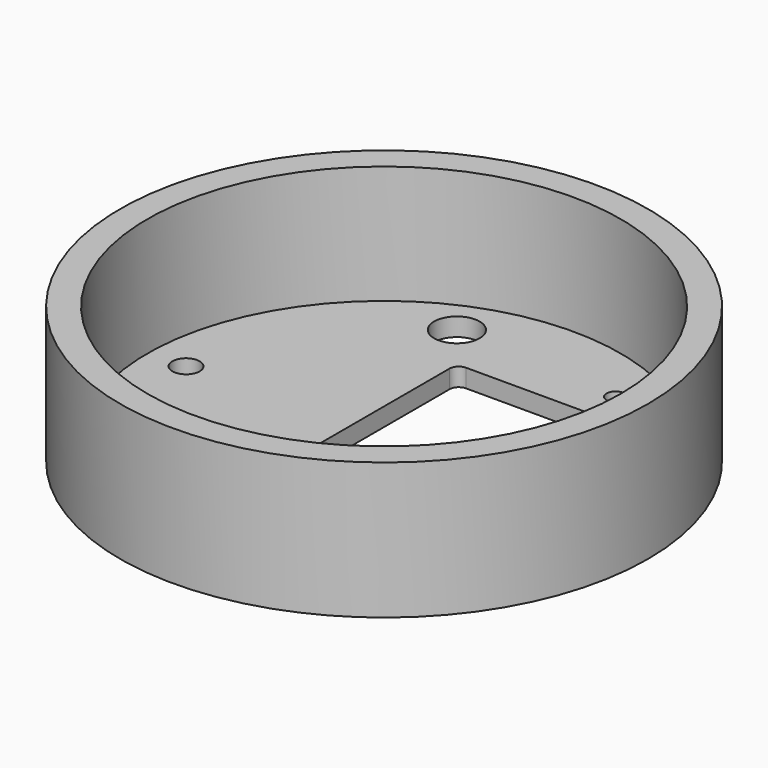
from build123d import *

# Parameters (mm, degrees)
PAD_DEPTH         = 10
CYLINDER002_R     = 2.5
CYLINDER002_DEPTH = 10
CYLINDER004_R     = 1.5
CYLINDER004_DEPTH = 10
CYLINDER003_R     = 1
CYLINDER003_DEPTH = 10
CYLINDER001_R     = 2.5
CYLINDER001_DEPTH = 10
CYLINDER005_R     = 26
CYLINDER005_DEPTH = 32
CYLINDER_R        = 29
CYLINDER_DEPTH    = 15


with BuildPart() as pad:
    # Sketch → Pad (new body)
    with BuildSketch(Plane.XY):
        with BuildLine():
            Line((27, 45), (45.5, 45))
            ThreePointArc((46.5, 44), (46.207107, 44.707107), (45.5, 45))
            Line((46.5, 44), (46.5, 16))
            ThreePointArc((45.5, 15), (46.207107, 15.292893), (46.5, 16))
            Line((45.5, 15), (27, 15))
            ThreePointArc((26, 16), (26.292893, 15.292893), (27, 15))
            Line((26, 16), (26, 44))
            ThreePointArc((27, 45), (26.292893, 44.707107), (26, 44))
        make_face()
    extrude(amount=PAD_DEPTH)


with BuildPart() as zylinder002:
    # Cylinder002 → Cylinder002 (new body)
    with BuildSketch(Plane(origin=(22, 50, -1), x_dir=(1, 0, 0), z_dir=(0, 0, 1))):
        Circle(CYLINDER002_R)
    extrude(amount=CYLINDER002_DEPTH)


with BuildPart() as zylinder004:
    # Cylinder004 → Cylinder004 (new body)
    with BuildSketch(Plane(origin=(8.08, 30.2, -1), x_dir=(1, 0, 0), z_dir=(0, 0, 1))):
        Circle(CYLINDER004_R)
    extrude(amount=CYLINDER004_DEPTH)


with BuildPart() as zylinder003:
    # Cylinder003 → Cylinder003 (new body)
    with BuildSketch(Plane(origin=(40.4, 48.8, -1), x_dir=(1, 0, 0), z_dir=(0, 0, 1))):
        Circle(CYLINDER003_R)
    extrude(amount=CYLINDER003_DEPTH)


with BuildPart() as fusion:
    # Cylinder001 → Cylinder001 (new body)
    with BuildSketch(Plane(origin=(22, 10, -1), x_dir=(1, 0, 0), z_dir=(0, 0, 1))):
        Circle(CYLINDER001_R)
    extrude(amount=CYLINDER001_DEPTH)

    # Fusion: union Pad, Zylinder002, Zylinder004, Zylinder003
    add(pad.part)
    add(zylinder002.part)
    add(zylinder004.part)
    add(zylinder003.part)


with BuildPart() as zylinder005:
    # Cylinder005 → Cylinder005 (new body)
    with BuildSketch(Plane(origin=(30, 30, 2), x_dir=(1, 0, 0), z_dir=(0, 0, 1))):
        Circle(CYLINDER005_R)
    extrude(amount=CYLINDER005_DEPTH)


with BuildPart() as cut001:
    # Cylinder → Cylinder (new body)
    with BuildSketch(Plane(origin=(30, 30, 0), x_dir=(1, 0, 0), z_dir=(0, 0, 1))):
        Circle(CYLINDER_R)
    extrude(amount=CYLINDER_DEPTH)

    # Cut: cut Zylinder005
    add(zylinder005.part, mode=Mode.SUBTRACT)

    # Cut001: cut Fusion
    add(fusion.part, mode=Mode.SUBTRACT)


solid = cut001.part
